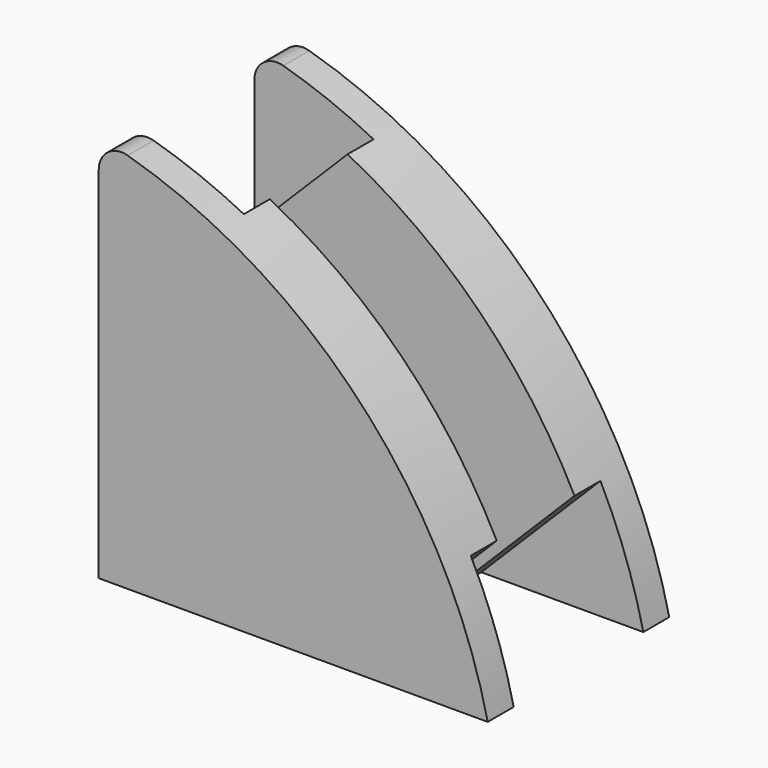
from build123d import *

# Parameters (mm, degrees)
F1_DEPTH = 3.5
F3_DEPTH = 1.5
F5_DEPTH = 2.5
F6_R     = 0.7


with BuildPart() as f1:
    # F0 (on Front) → F1 (new body, symmetric)
    with BuildSketch(Plane.XZ):
        with BuildLine():
            ThreePointArc((15.5, 3.5), (11.2361025271, 11.2361025271), (3.5, 15.5))
            Line((3.5, 15.5), (3.5, 3.5))
            Line((3.5, 3.5), (15.5, 3.5))
        make_face()
    extrude(amount=F1_DEPTH, both=True)

    # F2 (on Front) → F3 (cut, symmetric)
    with BuildSketch(Plane.XZ):
        with BuildLine():
            ThreePointArc((3.5, 10.5), (7.8262379212, 7.8262379212), (10.5, 3.5))
            Line((10.5, 3.5), (15.5, 3.5))
            ThreePointArc((15.5, 3.5), (11.2361025271, 11.2361025271), (3.5, 15.5))
            Line((3.5, 15.5), (3.5, 10.5))
        make_face()
    extrude(amount=F3_DEPTH, both=True, mode=Mode.SUBTRACT)

    # F4 (on Front) → F5 (cut, symmetric)
    with BuildSketch(Plane.XZ):
        with BuildLine():
            ThreePointArc((7.177078252, 14.177078252), (5.3793615316, 14.9520055348), (3.5, 15.5))
            Line((3.5, 15.5), (3.5, 10.5))
            Line((3.5, 10.5), (7.177078252, 14.177078252))
        make_face()
        with BuildLine():
            Line((14.177078252, 7.177078252), (10.5, 3.5))
            Line((10.5, 3.5), (15.5, 3.5))
            ThreePointArc((15.5, 3.5), (14.9520055348, 5.3793615316), (14.177078252, 7.177078252))
        make_face()
    extrude(amount=F5_DEPTH, both=True, mode=Mode.SUBTRACT)

    # F6
    f6_edges = [f1.edges().sort_by_distance(p)[0] for p in [
        (3.5, 3, 15.5),
        (3.5, -3, 15.5),
    ]]
    fillet(f6_edges, radius=F6_R)


solid = f1.part
